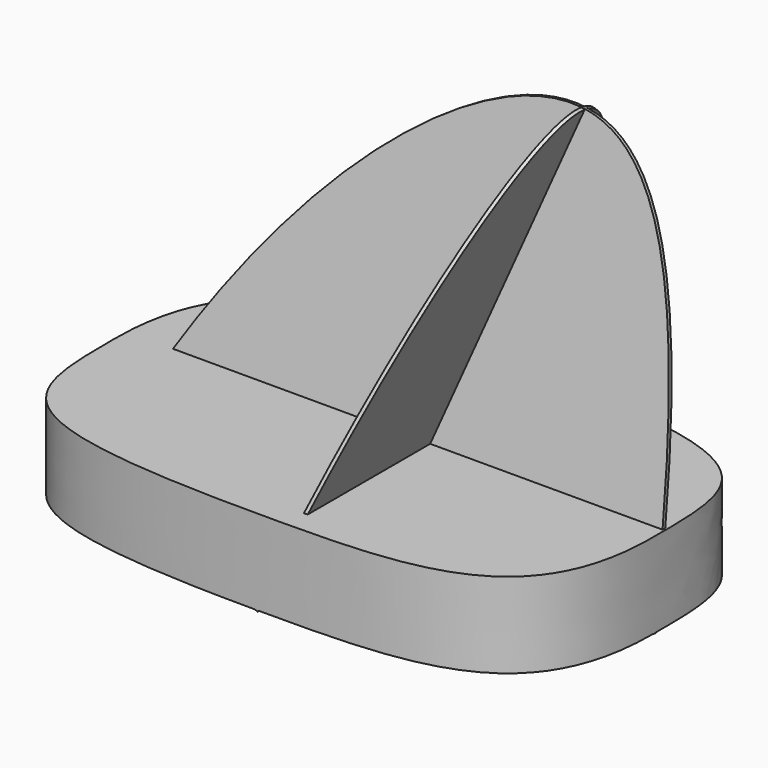
from build123d import *

# Parameters (mm, degrees)
F15_DEPTH = 25
F16_DEPTH = 1
F17_DEPTH = 1


with BuildPart() as f15:
    # F0 (on Top) → F15 (new body)
    with BuildSketch(Plane.XY):
        with BuildLine():
            Line((-79, -47.5), (0, -47.5))
            add(Edge.make_bspline(
                [(0, -47.5), (43.4822692035, -47.5), (79, -47.5), (79, 0)],
                knots=[0, 0, 0, 0, 92.1805293975, 92.1805293975, 92.1805293975, 92.1805293975], degree=3))
            Line((79, 0), (79, 47.5))
            Line((79, 47.5), (0, 47.5))
            add(Edge.make_bspline(
                [(0, 47.5), (-43.4822692035, 47.5), (-79, 47.5), (-79, 0)],
                knots=[0, 0, 0, 0, 92.1805293975, 92.1805293975, 92.1805293975, 92.1805293975], degree=3))
            Line((-79, 0), (-79, -47.5))
        make_face()
        with BuildLine():
            add(Edge.make_bspline(
                [(0, -47.5), (-79, -47.5), (-79, -34.1668985784), (-79, 0)],
                knots=[0, 0, 0, 0, 92.1805293975, 92.1805293975, 92.1805293975, 92.1805293975], degree=3))
            Line((0, -47.5), (-79, -47.5))
            Line((-79, -47.5), (-79, 0))
        make_face(mode=Mode.SUBTRACT)
        with BuildLine():
            add(Edge.make_bspline(
                [(0, 47.5), (79, 47.5), (79, 34.1668985784), (79, 0)],
                knots=[0, 0, 0, 0, 92.1805293975, 92.1805293975, 92.1805293975, 92.1805293975], degree=3))
            Line((0, 47.5), (79, 47.5))
            Line((79, 47.5), (79, 0))
        make_face(mode=Mode.SUBTRACT)
    extrude(amount=F15_DEPTH)

    # F6 (on 3pt) → F16 (join)
    with BuildSketch(Plane(origin=(0, 0, 0), x_dir=(-1, 0, 0), z_dir=(0, 0.9854601157, -0.1699069165))):
        with BuildLine():
            add(Edge.make_bspline(
                [(-79, 0), (-78.1585723162, 77.4200484157), (-56.905300797, 159.3443483951), (42.3372276127, 75.4419416189), (79, 0)],
                knots=[0, 0, 0, 0, 0.4609012378, 1, 1, 1, 1], degree=3))
            Line((-79, 0), (79, 0))
        make_face()
    extrude(amount=F16_DEPTH)

    # F9 (on 3pt) → F17 (join)
    with BuildSketch(Plane(origin=(0, 0, 0), x_dir=(0, 1, 0), z_dir=(0.94026585, 0, -0.3404410836))):
        with BuildLine():
            Line((0, 0), (20, 123.3693641063))
            add(Edge.make_bspline(
                [(20, 123.3693641063), (0.1035212234, 127.0988093011), (-31.4492173493, 72.7468207479), (-47.5, 0)],
                knots=[0.4866670067, 0.4866670067, 0.4866670067, 0.4866670067, 1, 1, 1, 1], degree=3))
            Line((-47.5, 0), (0, 0))
        make_face()
        with BuildLine():
            Line((0, 0), (47.5, 0))
            add(Edge.make_bspline(
                [(47.5, 0), (47.2491383553, 64.0940591693), (38.8629211383, 119.8336515117), (20, 123.3693641063)],
                knots=[0, 0, 0, 0, 0.4866670067, 0.4866670067, 0.4866670067, 0.4866670067], degree=3))
            Line((20, 123.3693641063), (0, 0))
        make_face()
        with BuildLine():
            Line((0, 0), (20, 123.3693641063))
            add(Edge.make_bspline(
                [(20, 123.3693641063), (0.1035212234, 127.0988093011), (-31.4492173493, 72.7468207479), (-47.5, 0)],
                knots=[0.4866670067, 0.4866670067, 0.4866670067, 0.4866670067, 1, 1, 1, 1], degree=3))
            Line((-47.5, 0), (0, 0))
        make_face()
    extrude(amount=F17_DEPTH)


solid = f15.part
